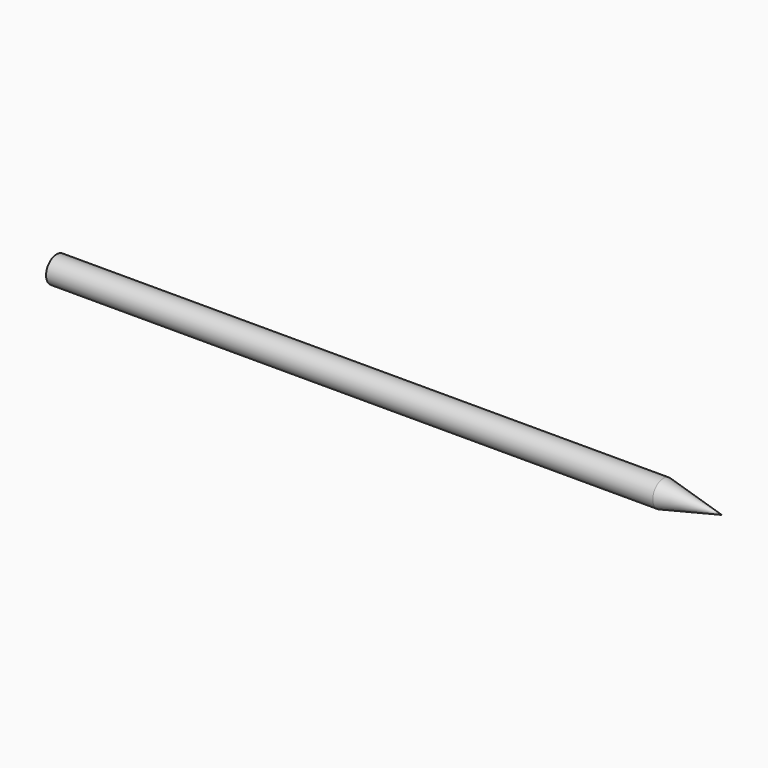
from build123d import *


with BuildPart() as f1:
    # F0 (on Front) → F1 (revolve)
    with BuildSketch(Plane.XZ):
        Polygon((-48.0727292597, 0), (0, 0), (48.0857345801, 0), (48.0855256319, 2.0852012094), (-48.0727292597, 2.0849993452), align=None)
    revolve(axis=Axis((4.6490393579, 0, 0), (1, 0, 0)))

    # F0 (on Front) → F2 (revolve)
    with BuildSketch(Plane.XZ):
        Polygon((48.0855256319, 2.0852012094), (48.0857345801, 0), (57.3708079755, 0), align=None)
    revolve(axis=Axis((4.6490393579, 0, 0), (1, 0, 0)))


solid = f1.part
